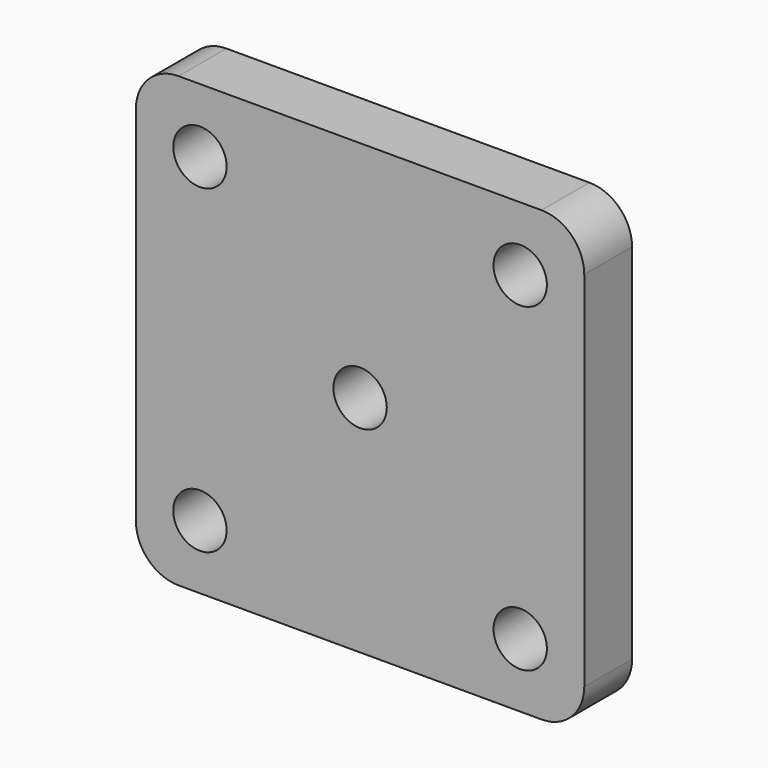
from build123d import *

# Parameters (mm, degrees)
F0_R     = 2.5
F1_DEPTH = 5.6


with BuildPart() as f1:
    # F0 (on Front) → F1 (new body)
    with BuildSketch(Plane.XZ):
        with BuildLine():
            ThreePointArc((21, 17), (19.828427, 19.828427), (17, 21))
            Line((17, 21), (-17, 21))
            ThreePointArc((-17, 21), (-19.828427, 19.828427), (-21, 17))
            Line((-21, 17), (-21, -17))
            ThreePointArc((-21, -17), (-19.828427, -19.828427), (-17, -21))
            Line((-17, -21), (17, -21))
            ThreePointArc((17, -21), (19.828427, -19.828427), (21, -17))
            Line((21, -17), (21, 17))
        make_face()
        with Locations((-15, -15)):
            Circle(F0_R, mode=Mode.SUBTRACT)
        with Locations((15, -15)):
            Circle(F0_R, mode=Mode.SUBTRACT)
        with Locations((-15, 15)):
            Circle(F0_R, mode=Mode.SUBTRACT)
        Circle(F0_R, mode=Mode.SUBTRACT)
        with Locations((15, 15)):
            Circle(F0_R, mode=Mode.SUBTRACT)
    extrude(amount=F1_DEPTH)


solid = f1.part
